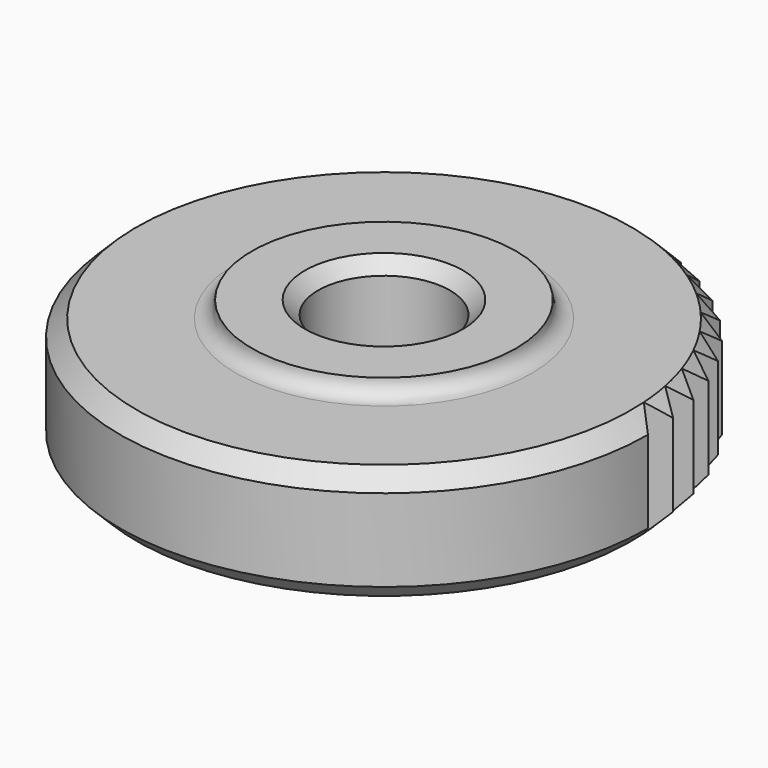
from build123d import *

# Parameters (mm, degrees)
SKETCH_R        = 8
PAD_DEPTH       = 3.5
SKETCH001_R     = 4
PAD001_DEPTH    = 0.5
FILLET_R        = 0.49
SKETCH002_R     = 2
POCKET_DEPTH    = 5
CHAMFER_SIZE    = 0.4
CHAMFER001_SIZE = 0.5
POCKET001_DEPTH = 5


with BuildPart() as part:
    # Sketch → Pad (new body)
    with BuildSketch(Plane.XY):
        Circle(SKETCH_R)
    extrude(amount=PAD_DEPTH)

    # Sketch001 → Pad001 (new body)
    with BuildSketch(Plane.XY.offset(3.5)):
        Circle(SKETCH001_R)
    extrude(amount=PAD001_DEPTH)

    # Fillet
    fillet_edges = [part.edges().sort_by_distance(p)[0] for p in [
        (-4, 0, 3.5),
    ]]
    fillet(fillet_edges, radius=FILLET_R)

    # Sketch002 → Pocket (cut)
    with BuildSketch(Plane.XY.offset(4)):
        Circle(SKETCH002_R)
    extrude(amount=-POCKET_DEPTH, mode=Mode.SUBTRACT)

    # Chamfer
    chamfer_edges = [part.edges().sort_by_distance(p)[0] for p in [
        (-2, 0, 4),
        (-2, 0, 0),
    ]]
    chamfer(chamfer_edges, length=CHAMFER_SIZE)

    # Chamfer001
    chamfer001_edges = [part.edges().sort_by_distance(p)[0] for p in [
        (-8, 0, 0),
        (-8, 0, 3.5),
    ]]
    chamfer(chamfer001_edges, length=CHAMFER001_SIZE)

    # Sketch003 → Pocket001 (cut)
    with BuildSketch(Plane.XY.offset(3.5)):
        with BuildLine():
            Line((8, 0), (7.484119, 0.487818))
            Line((7.484119, 0.487818), (7.932312, 1.038475))
            Line((7.932312, 1.038475), (7.357472, 1.4552))
            Line((7.357472, 1.4552), (7.730392, 2.059377))
            Line((7.730392, 2.059377), (7.106322, 2.397956))
            Line((7.106322, 2.397956), (7.397659, 3.04543))
            Line((7.397659, 3.04543), (6.734918, 3.300134))
            Line((6.734918, 3.300134), (6.939742, 3.979948))
            Line((6.939742, 3.979948), (6.249545, 4.146467))
            Line((6.249545, 4.146467), (6.36439, 4.847117))
            Line((6.36439, 4.847117), (5.658417, 4.922633))
            Line((5.658417, 4.922633), (5.681339, 5.632263))
            Line((5.681339, 5.632263), (4.971537, 5.615498))
            Line((4.971537, 5.615498), (4.902148, 6.322099))
            Line((4.902148, 6.322099), (4.200528, 6.213337))
            Line((4.200528, 6.213337), (4.040003, 6.904953))
            Line((4.040003, 6.904953), (3.358438, 6.706034))
            Line((3.358438, 6.706034), (3.109493, 7.37096))
            Line((3.109493, 7.37096), (2.459516, 7.085251))
            Line((2.459516, 7.085251), (2.126364, 7.712236))
            ThreePointArc((8, 0), (8.064811, 6.142157), (2.126364, 7.712236))
        make_face()
    extrude(amount=-POCKET001_DEPTH, mode=Mode.SUBTRACT)


solid = part.part
